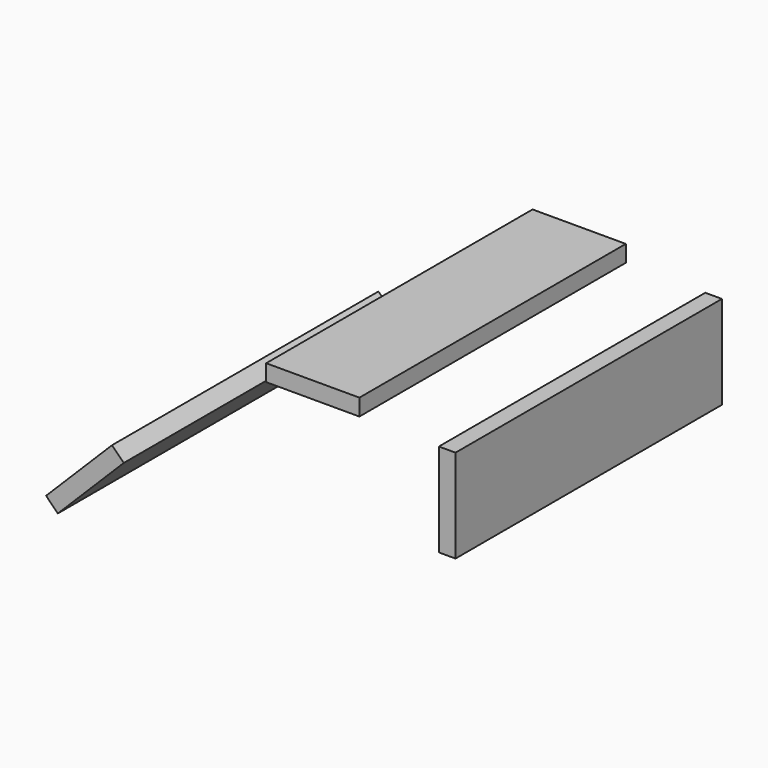
from build123d import *

# Parameters (mm, degrees)
F0_W     = 71.12
F0_H     = 12.7
F0_W_2   = 12.7
F0_H_2   = 71.12
F1_DEPTH = 254
F3_DEPTH = 25.4


with BuildPart() as f1:
    # F0 (on Front) → F1 (new body)
    with BuildSketch(Plane.XZ):
        with Locations((8.151879, 180.87158)):
            Rectangle(F0_W, F0_H)
        with Locations((110.676953, 138.570622)):
            Rectangle(F0_W_2, F0_H_2)
        Polygon((-195.263058, 43.645673), (-186.282802, 34.665416), (-135.993367, 84.954851), (-144.973624, 93.935107), align=None)
    extrude(amount=F1_DEPTH)


with BuildPart() as f3:
    # F2 (on Front) → F3 (new body)
    with BuildSketch(Plane.XZ):
        Polygon((-223.457229, 14.464707), (-217.975392, 9.171896), (-200.332686, 27.444688), (-205.814524, 32.7375), align=None)
    extrude(amount=F3_DEPTH)


solid = Compound([f1.part, f3.part])
